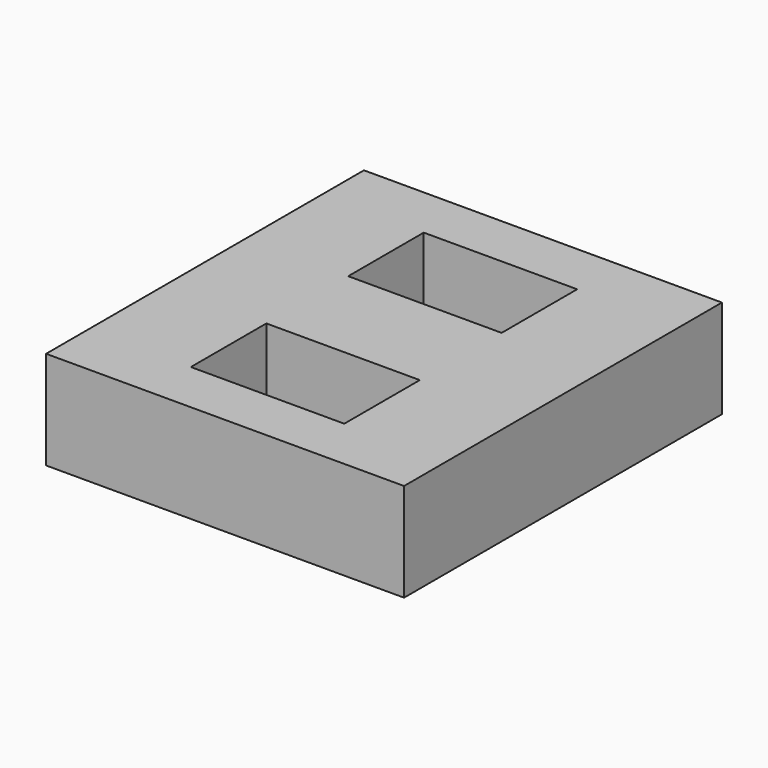
from build123d import *

# Parameters (mm, degrees)
SKETCH013_W   = 18.2
SKETCH013_H   = 20.2
SKETCH013_W_2 = 7.8
SKETCH013_H_2 = 4.8
PAD013_DEPTH  = 5


with BuildPart() as part:
    # Sketch013 → Pad013 (new body)
    with BuildSketch(Plane(origin=(0, -2.5, 80), x_dir=(1, 0, 0), z_dir=(0, 0, 1))):
        Rectangle(SKETCH013_W, SKETCH013_H)
        with Locations((0, 5)):
            Rectangle(SKETCH013_W_2, SKETCH013_H_2, mode=Mode.SUBTRACT)
        with Locations((0, -5)):
            Rectangle(SKETCH013_W_2, SKETCH013_H_2, mode=Mode.SUBTRACT)
    extrude(amount=PAD013_DEPTH)


solid = part.part
